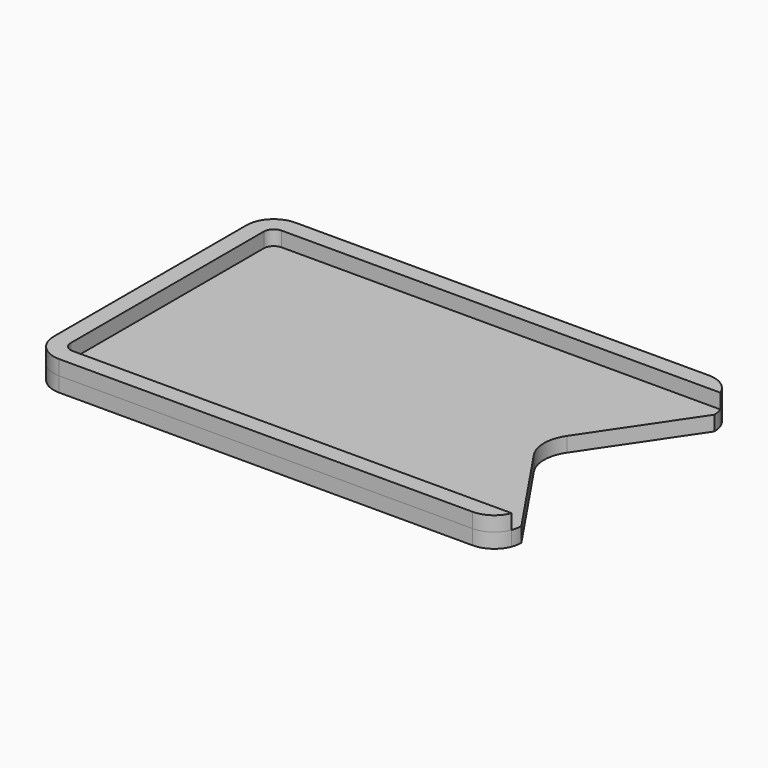
from build123d import *

# Parameters (mm, degrees)
F1_DEPTH = 3
F2_DEPTH = 3
F4_DEPTH = 25


with BuildPart() as f1:
    # F0 (on Top) → F1 (new body)
    with BuildSketch(Plane.XY):
        with BuildLine():
            Line((-42, -30), (42, -30))
            ThreePointArc((42, -30), (45.102418, -29.041476), (47.123475, -26.5))
            Line((47.123475, -26.5), (-42, -26.5))
            ThreePointArc((-42, -26.5), (-43.414214, -25.914214), (-44, -24.5))
            Line((-44, -24.5), (-44, 24.5))
            ThreePointArc((-44, 24.5), (-43.414214, 25.914214), (-42, 26.5))
            Line((-42, 26.5), (47.123475, 26.5))
            ThreePointArc((47.123475, 26.5), (45.102418, 29.041476), (42, 30))
            Line((42, 30), (-42, 30))
            ThreePointArc((-42, 30), (-45.889087, 28.389087), (-47.5, 24.5))
            Line((-47.5, 24.5), (-47.5, -24.5))
            ThreePointArc((-47.5, -24.5), (-45.889087, -28.389087), (-42, -30))
        make_face()
        with BuildLine():
            Line((-42, -26.5), (47.123475, -26.5))
            ThreePointArc((47.123475, -26.5), (47.405049, -25.517567), (47.5, -24.5))
            Line((47.5, -24.5), (47.5, 24.5))
            ThreePointArc((47.5, 24.5), (47.405049, 25.517567), (47.123475, 26.5))
            Line((47.123475, 26.5), (-42, 26.5))
            ThreePointArc((-42, 26.5), (-43.414214, 25.914214), (-44, 24.5))
            Line((-44, 24.5), (-44, -24.5))
            ThreePointArc((-44, -24.5), (-43.414214, -25.914214), (-42, -26.5))
        make_face()
    extrude(amount=-F1_DEPTH)

    # F3 (on face) → F4 (cut)
    with BuildSketch(Plane(origin=(0, 0, -3), x_dir=(1, 0, 0), z_dir=(0, 0, -1))):
        with BuildLine():
            Line((47.5, 24.5), (33.785225, 4.198401))
            ThreePointArc((33.785225, 4.198401), (32.5, 0), (33.785225, -4.198401))
            Line((33.785225, -4.198401), (47.5, -24.5))
            Line((47.5, -24.5), (47.5, 24.5))
        make_face()
    extrude(amount=-F4_DEPTH, mode=Mode.SUBTRACT)


with BuildPart() as f2:
    # F0 (on Top) → F2 (new body)
    with BuildSketch(Plane.XY):
        with BuildLine():
            Line((-42, -30), (42, -30))
            ThreePointArc((42, -30), (45.102418, -29.041476), (47.123475, -26.5))
            Line((47.123475, -26.5), (-42, -26.5))
            ThreePointArc((-42, -26.5), (-43.414214, -25.914214), (-44, -24.5))
            Line((-44, -24.5), (-44, 24.5))
            ThreePointArc((-44, 24.5), (-43.414214, 25.914214), (-42, 26.5))
            Line((-42, 26.5), (47.123475, 26.5))
            ThreePointArc((47.123475, 26.5), (45.102418, 29.041476), (42, 30))
            Line((42, 30), (-42, 30))
            ThreePointArc((-42, 30), (-45.889087, 28.389087), (-47.5, 24.5))
            Line((-47.5, 24.5), (-47.5, -24.5))
            ThreePointArc((-47.5, -24.5), (-45.889087, -28.389087), (-42, -30))
        make_face()
    extrude(amount=F2_DEPTH)


solid = Compound([f1.part, f2.part])
